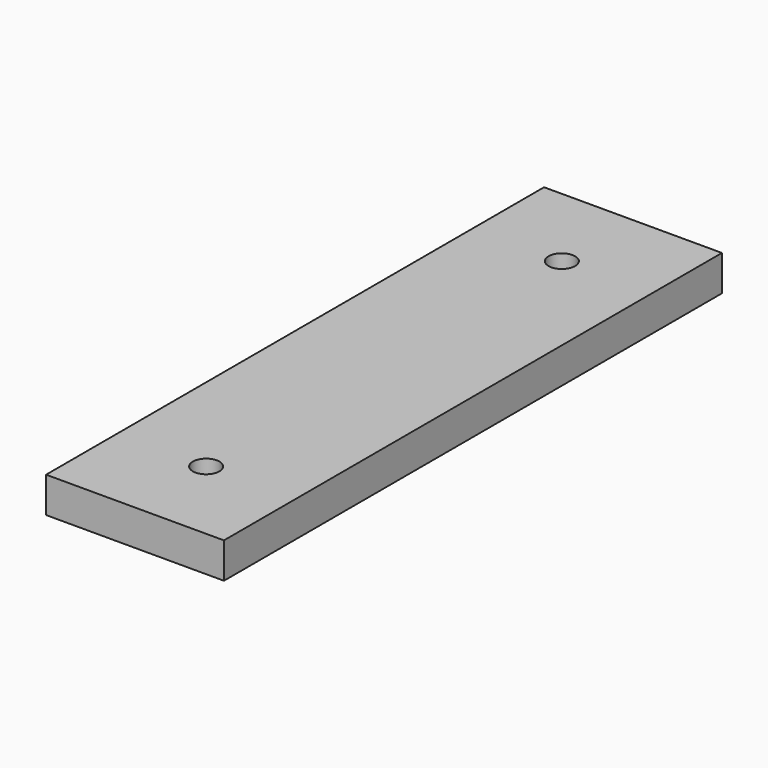
from build123d import *

# Parameters (mm, degrees)
F0_W     = 25.4
F0_H     = 88.9
F1_DEPTH = 5.08
F3_D     = 3.7973


with BuildPart() as f1:
    # F0 (on Top) → F1 (new body)
    with BuildSketch(Plane.XY):
        with Locations((12.7, 44.45)):
            Rectangle(F0_W, F0_H)
    extrude(amount=F1_DEPTH)

    # F3 (through all)
    with Locations(Plane.XY.offset(5.08)):
        with Locations((12.7, 76.2), (12.7, 12.7)):
            Hole(F3_D / 2)


solid = f1.part
